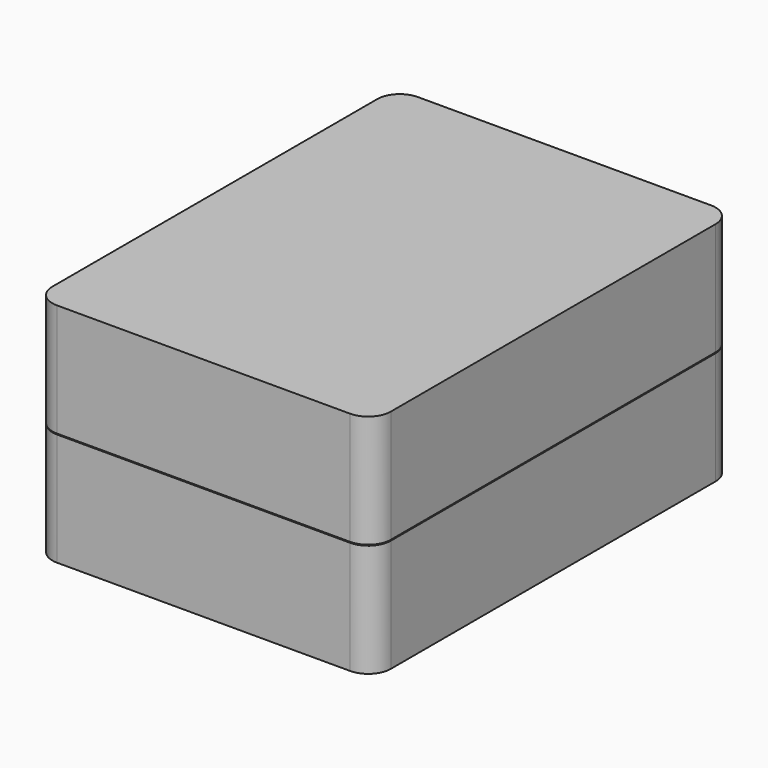
from build123d import *

# Parameters (mm, degrees)
PAD_DEPTH      = 25
THICKNESS_T    = -2
PAD001_DEPTH   = 3
PAD002_DEPTH   = 25
THICKNESS001_T = -2
POCKET_DEPTH   = 3


with BuildPart() as base:
    # Sketch → Pad (new body)
    with BuildSketch(Plane.XY):
        with BuildLine():
            Line((37.5, -45), (37.5, 45))
            ThreePointArc((37.5, 45), (36.035534, 48.535534), (32.5, 50))
            Line((32.5, 50), (-32.5, 50))
            ThreePointArc((-32.5, 50), (-36.035534, 48.535534), (-37.5, 45))
            Line((-37.5, 45), (-37.5, -45))
            ThreePointArc((-37.5, -45), (-36.035534, -48.535534), (-32.5, -50))
            Line((-32.5, -50), (32.5, -50))
            ThreePointArc((32.5, -50), (36.035534, -48.535534), (37.5, -45))
        make_face()
    extrude(amount=PAD_DEPTH)

    # Thickness
    thickness_openings = [base.faces().sort_by_distance(p)[0] for p in [
        (0, 0, 25),
    ]]
    offset(amount=THICKNESS_T, openings=thickness_openings)

    # Sketch002 (on Face10 of Thickness) → Pad001 (join)
    with BuildSketch(Plane.XY.offset(25)):
        with BuildLine():
            Line((36.5, -45), (36.5, 45))
            ThreePointArc((36.5, 45), (35.328427, 47.828427), (32.5, 49))
            Line((32.5, 49), (-32.5, 49))
            ThreePointArc((-32.5, 49), (-35.328427, 47.828427), (-36.5, 45))
            Line((-36.5, 45), (-36.5, -45))
            ThreePointArc((-36.5, -45), (-35.328427, -47.828427), (-32.5, -49))
            Line((-32.5, -49), (32.5, -49))
            ThreePointArc((32.5, -49), (35.328427, -47.828427), (36.5, -45))
        make_face()
        with BuildLine():
            Line((35.5, -45), (35.5, 45))
            ThreePointArc((35.5, 45), (34.62132, 47.12132), (32.5, 48))
            Line((32.5, 48), (-32.5, 48))
            ThreePointArc((-32.5, 48), (-34.62132, 47.12132), (-35.5, 45))
            Line((-35.5, 45), (-35.5, -45))
            ThreePointArc((-35.5, -45), (-34.62132, -47.12132), (-32.5, -48))
            Line((-32.5, -48), (32.5, -48))
            ThreePointArc((32.5, -48), (34.62132, -47.12132), (35.5, -45))
        make_face(mode=Mode.SUBTRACT)
    extrude(amount=PAD001_DEPTH)


with BuildPart() as lid:
    # Sketch003 → Pad002 (new body)
    with BuildSketch(Plane.XY.offset(25.2)):
        with BuildLine():
            Line((37.5, -45), (37.5, 45))
            ThreePointArc((37.5, 45), (36.035534, 48.535534), (32.5, 50))
            Line((32.5, 50), (-32.5, 50))
            ThreePointArc((-32.5, 50), (-36.035534, 48.535534), (-37.5, 45))
            Line((-37.5, 45), (-37.5, -45))
            ThreePointArc((-37.5, -45), (-36.035534, -48.535534), (-32.5, -50))
            Line((-32.5, -50), (32.5, -50))
            ThreePointArc((32.5, -50), (36.035534, -48.535534), (37.5, -45))
        make_face()
    extrude(amount=PAD002_DEPTH)

    # Thickness001
    thickness001_openings = [lid.faces().sort_by_distance(p)[0] for p in [
        (0, 0, 25.2),
    ]]
    offset(amount=THICKNESS001_T, openings=thickness001_openings)

    # Sketch005 (on Face10 of Thickness001) → Pocket (cut)
    with BuildSketch(Plane(origin=(0, 0, 25.2), x_dir=(1, 0, 0), z_dir=(0, 0, -1))):
        with BuildLine():
            Line((-36.7, 45), (-36.7, -45))
            ThreePointArc((-36.7, -45), (-35.469848, -47.969848), (-32.5, -49.2))
            Line((-32.5, -49.2), (32.5, -49.2))
            ThreePointArc((32.5, -49.2), (35.469848, -47.969848), (36.7, -45))
            Line((36.7, -45), (36.7, 45))
            ThreePointArc((36.7, 45), (35.469848, 47.969848), (32.5, 49.2))
            Line((32.5, 49.2), (-32.5, 49.2))
            ThreePointArc((-32.5, 49.2), (-35.469848, 47.969848), (-36.7, 45))
        make_face()
        with BuildLine():
            Line((-35.5, 45), (-35.5, -45))
            ThreePointArc((-35.5, -45), (-34.62132, -47.12132), (-32.5, -48))
            Line((-32.5, -48), (32.5, -48))
            ThreePointArc((32.5, -48), (34.62132, -47.12132), (35.5, -45))
            Line((35.5, -45), (35.5, 45))
            ThreePointArc((35.5, 45), (34.62132, 47.12132), (32.5, 48))
            Line((32.5, 48), (-32.5, 48))
            ThreePointArc((-32.5, 48), (-34.62132, 47.12132), (-35.5, 45))
        make_face(mode=Mode.SUBTRACT)
    extrude(amount=-POCKET_DEPTH, mode=Mode.SUBTRACT)


solid = Compound([base.part, lid.part])
